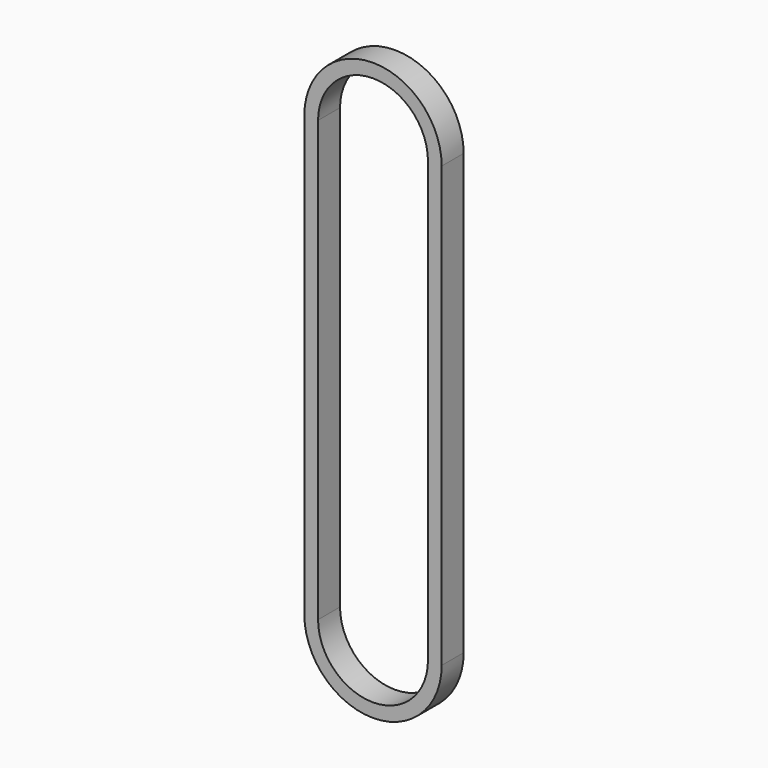
from build123d import *

# Parameters (mm, degrees)
F1_DEPTH = 10


with BuildPart() as f1:
    # F0 (on Front) → F1 (new body)
    with BuildSketch(Plane.XZ):
        with BuildLine():
            Line((20, -160), (20, 0))
            ThreePointArc((20, 0), (0, 20), (-20, 0))
            Line((-20, 0), (-20, -160))
            ThreePointArc((-20, -160), (0, -180), (20, -160))
        make_face()
        with BuildLine():
            Line((-25, 0), (-25, -160))
            ThreePointArc((-25, -160), (0, -185), (25, -160))
            Line((25, -160), (25, 0))
            ThreePointArc((25, 0), (0, 25), (-25, 0))
        make_face()
        with BuildLine():
            ThreePointArc((-20, 0), (0, 20), (20, 0))
            Line((20, 0), (20, -160))
            ThreePointArc((20, -160), (0, -180), (-20, -160))
            Line((-20, -160), (-20, 0))
        make_face(mode=Mode.SUBTRACT)
    extrude(amount=F1_DEPTH)


solid = f1.part
